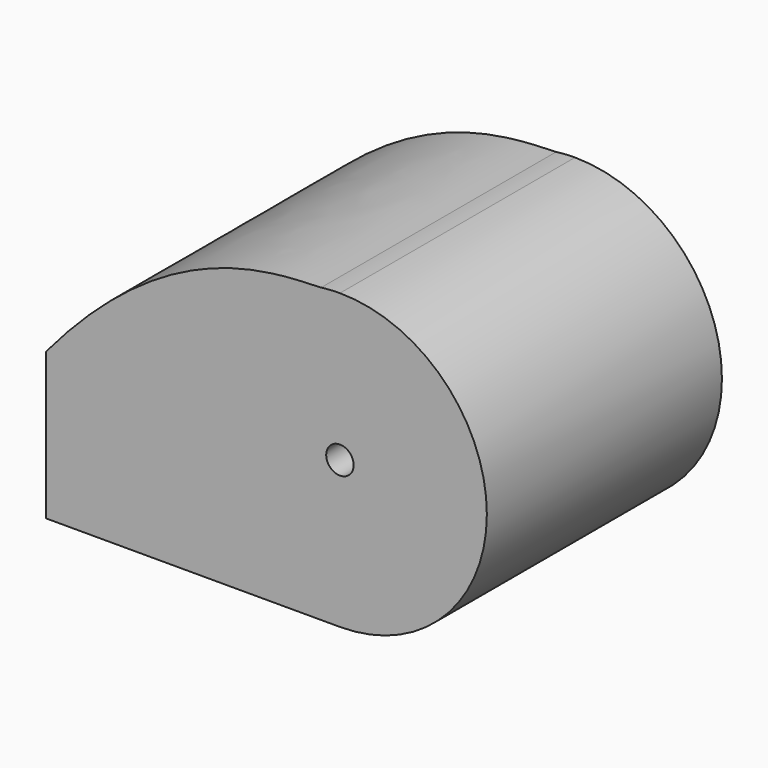
from build123d import *

# Parameters (mm, degrees)
F0_R     = 1.4
F1_DEPTH = 30


with BuildPart() as f1:
    # F0 (on Front) → F1 (new body)
    with BuildSketch(Plane.XZ):
        with BuildLine():
            Line((-30, -15), (0, -15))
            ThreePointArc((0, -15), (15, 0), (0, 15))
            add(Edge.make_bspline(
                [(-1.921847, 14.876374), (-1.200945, 14.903675), (-0.55847, 14.934098), (0, 15)],
                knots=[29.687873, 29.687873, 29.687873, 29.687873, 33.54102, 33.54102, 33.54102, 33.54102], degree=3))
            add(Edge.make_bspline(
                [(-30, 0), (-17.686429, 14.640932), (-7.476277, 14.666022), (-1.921847, 14.876374)],
                knots=[0, 0, 0, 0, 29.687873, 29.687873, 29.687873, 29.687873], degree=3))
            Line((-30, 0), (-30, -15))
        make_face()
        Circle(F0_R, mode=Mode.SUBTRACT)
        with BuildLine():
            add(Edge.make_bspline(
                [(-1.921847, 14.876374), (-1.200945, 14.903675), (-0.55847, 14.934098), (0, 15)],
                knots=[29.687873, 29.687873, 29.687873, 29.687873, 33.54102, 33.54102, 33.54102, 33.54102], degree=3))
            ThreePointArc((0, 15), (-0.962909, 14.969062), (-1.921847, 14.876374))
        make_face()
    extrude(amount=F1_DEPTH)


solid = f1.part
